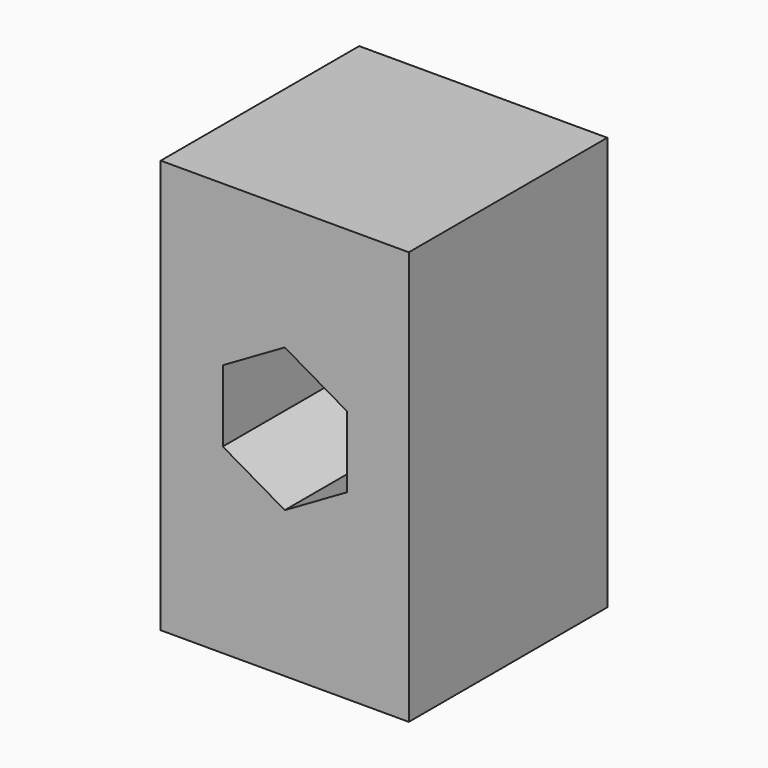
from build123d import *

# Parameters (mm, degrees)
F0_W     = 76.2
F0_H     = 127
F1_DEPTH = 76.2
F3_DEPTH = 76.201


with BuildPart() as f1:
    # F0 (on Front) → F1 (new body)
    with BuildSketch(Plane.XZ):
        with Locations((38.1, 63.5)):
            Rectangle(F0_W, F0_H)
    extrude(amount=-F1_DEPTH)

    # F2 (on face) → F3 (cut, through all)
    with BuildSketch(Plane.XZ):
        Polygon((57.15, 55.880064), (57.15, 77.87711), (38.1, 88.875632), (19.05, 77.87711), (19.05, 55.880064), (38.1, 44.881542), align=None)
    extrude(amount=-F3_DEPTH, mode=Mode.SUBTRACT)


solid = f1.part
